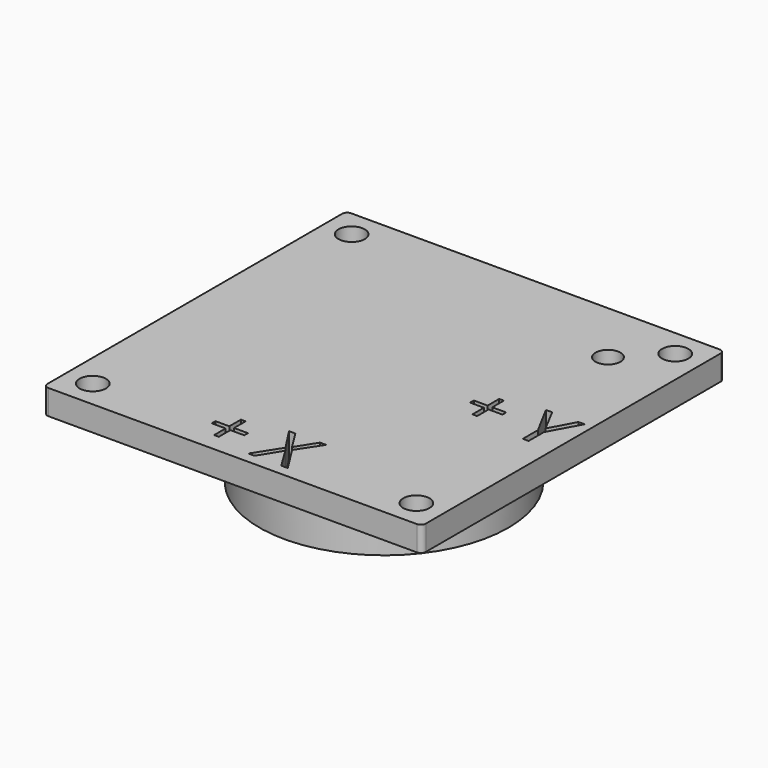
from build123d import *

# Parameters (mm, degrees)
F1_START = 15
F0_R     = 2.65
F0_R_2   = 25
F0_R_3   = 2.5
F1_DEPTH = 5
F2_DEPTH = 15


with BuildPart() as f1:
    # F0 (on Top) → F1 (new body)
    with BuildSketch(Plane.XY.offset(F1_START)):
        with BuildLine():
            Line((37, 38), (-37, 38))
            ThreePointArc((-37, 38), (-37.7071067812, 37.7071067812), (-38, 37))
            Line((-38, 37), (-38, -37))
            ThreePointArc((-38, -37), (-37.7071067812, -37.7071067812), (-37, -38))
            Line((-37, -38), (37, -38))
            ThreePointArc((37, -38), (37.7071067812, -37.7071067812), (38, -37))
            Line((38, -37), (38, 37))
            ThreePointArc((38, 37), (37.7071067812, 37.7071067812), (37, 38))
        make_face()
        with Locations((-32.5, -32.5)):
            Circle(F0_R, mode=Mode.SUBTRACT)
        Polygon((-5.7769097222, -27.5300209804), (-5.7769097222, -30.4314966748), (-2.9839409722, -30.4314966748), (-2.9839409722, -31.3668265359), (-5.7769097222, -31.3668265359), (-5.7769097222, -34.2574515359), (-6.7209201389, -34.2574515359), (-6.7209201389, -31.3668265359), (-9.5008680556, -31.3668265359), (-9.5008680556, -30.4314966748), (-6.7209201389, -30.4314966748), (-6.7209201389, -27.5300209804), align=None, mode=Mode.SUBTRACT)
        Polygon((5.99609375, -30.5747258415), (9.3055555556, -35.7960800081), (7.9969618056, -35.7960800081), (5.33203125, -31.4362709804), (2.6193576389, -35.7960800081), (1.3975694444, -35.7960800081), (4.6940104167, -30.6137883415), (1.62109375, -25.8807154248), (2.8971354167, -25.8807154248), (5.3580729167, -29.8086668137), (7.8407118056, -25.8807154248), (9.0668402778, -25.8807154248), align=None, mode=Mode.SUBTRACT)
        with Locations((32.5, -32.5)):
            Circle(F0_R, mode=Mode.SUBTRACT)
        Polygon((29.8459162505, 4.9153645833), (32.4717843061, -0.0434027778), (35.1150134727, 4.9153645833), (36.3628433338, 4.9153645833), (33.0533815283, -1.1545138889), (33.0533815283, -5), (31.888016945, -5), (31.888016945, -1.2087673611), (28.5850655561, 4.9153645833), align=None, mode=Mode.SUBTRACT)
        with Locations((-32.5, 32.5)):
            Circle(F0_R, mode=Mode.SUBTRACT)
        Circle(F0_R_2, mode=Mode.SUBTRACT)
        with Locations((24.9975970516, 24.9975970516)):
            Circle(F0_R_3, mode=Mode.SUBTRACT)
        with Locations((32.5, 32.5)):
            Circle(F0_R, mode=Mode.SUBTRACT)
        Circle(F0_R_2)
        Polygon((21.4648398616, 3.2660590278), (21.4648398616, 0.3645833333), (24.2578086116, 0.3645833333), (24.2578086116, -0.5707465278), (21.4648398616, -0.5707465278), (21.4648398616, -3.4613715278), (20.520829445, -3.4613715278), (20.520829445, -0.5707465278), (17.7408815283, -0.5707465278), (17.7408815283, 0.3645833333), (20.520829445, 0.3645833333), (20.520829445, 3.2660590278), align=None, mode=Mode.SUBTRACT)
    extrude(amount=F1_DEPTH)

    # F0 (on Top) → F2 (join)
    with BuildSketch(Plane.XY):
        Circle(F0_R_2)
        Polygon((21.4648398616, 3.2660590278), (21.4648398616, 0.3645833333), (24.2578086116, 0.3645833333), (24.2578086116, -0.5707465278), (21.4648398616, -0.5707465278), (21.4648398616, -3.4613715278), (20.520829445, -3.4613715278), (20.520829445, -0.5707465278), (17.7408815283, -0.5707465278), (17.7408815283, 0.3645833333), (20.520829445, 0.3645833333), (20.520829445, 3.2660590278), align=None, mode=Mode.SUBTRACT)
    extrude(amount=F2_DEPTH)


solid = f1.part
